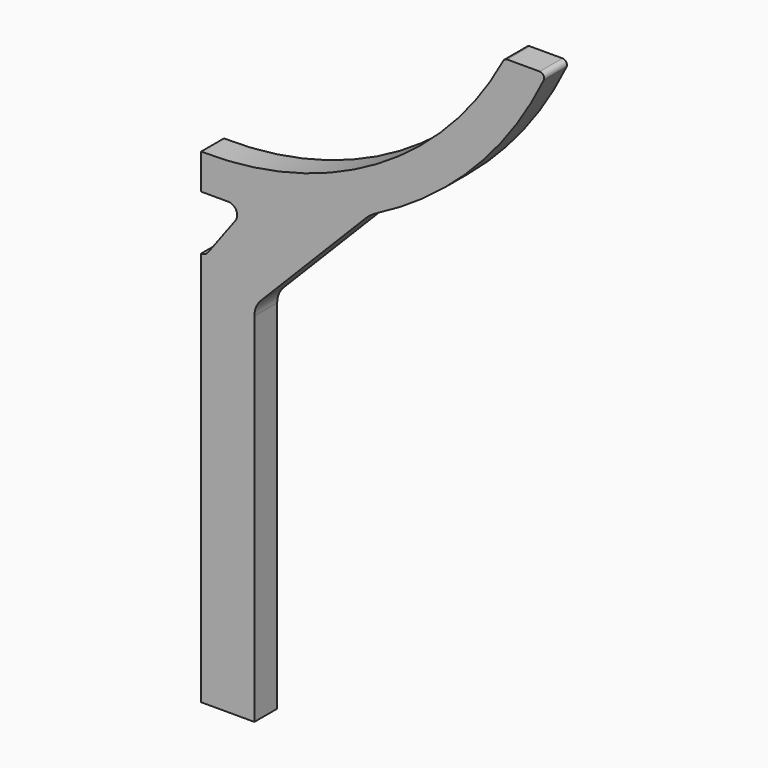
from build123d import *

# Parameters (mm, degrees)
F1_DEPTH = 6.35


with BuildPart() as f1:
    # F0 (on Front) → F1 (new body)
    with BuildSketch(Plane.XZ):
        with BuildLine():
            Line((75.361562, 21.802573), (68.159193, 21.802573))
            ThreePointArc((68.159193, 21.802573), (67.643768, 21.659507), (67.275821, 21.271246))
            ThreePointArc((67.275821, 21.271246), (39.236961, -8.061658), (0, -18.408534))
            Line((0, -18.408534), (0, -26.264148))
            Line((0, -26.264148), (6.028164, -26.264148))
            ThreePointArc((6.028164, -26.264148), (7.814478, -27.364658), (7.634936, -29.455065))
            Line((7.634936, -29.455065), (1.606772, -37.588195))
            ThreePointArc((1.606772, -37.588195), (0.89949, -38.183592), (0, -38.397278))
            Line((0, -38.397278), (0, -126.335785))
            Line((0, -126.335785), (11.859682, -126.335785))
            Line((11.859682, -126.335785), (11.859682, -46.803811))
            ThreePointArc((11.859682, -46.803811), (12.232361, -44.909636), (13.294841, -43.29783))
            Line((13.294841, -43.29783), (36.590743, -19.610819))
            ThreePointArc((36.590743, -19.610819), (37.801559, -18.56257), (39.164187, -17.721058))
            ThreePointArc((39.164187, -17.721058), (60.841409, -1.721337), (76.263449, 20.370601))
            ThreePointArc((76.263449, 20.370601), (76.207722, 21.335503), (75.361562, 21.802573))
        make_face()
    extrude(amount=F1_DEPTH)


solid = f1.part
